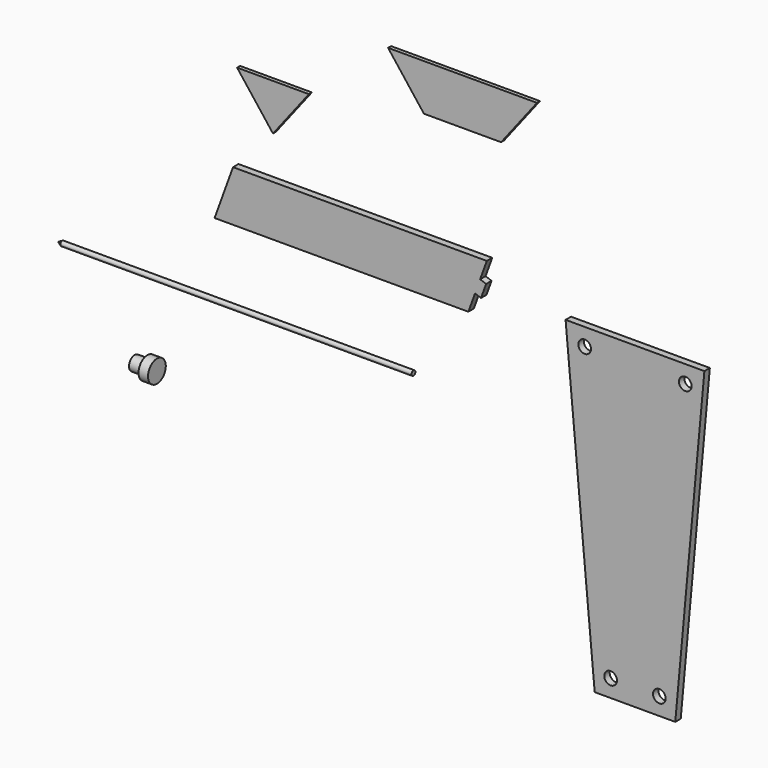
from build123d import *

# Parameters (mm, degrees)
F1_DEPTH = 3.4163
F3_DEPTH = 1.89738
F5_DEPTH = 1.89738
F6_R     = 3.175
F7_DEPTH = 3.4163


with BuildPart() as f1:
    # F0 (on Front) → F1 (new body)
    with BuildSketch(Plane.XZ):
        Polygon((-115.179243, -12.266104), (11.820757, -12.266104), (15.165372, -3.076849), (18.148896, -4.162763), (19.426703, -0.652018), (20.70451, 2.858728), (17.720986, 3.944642), (21.065601, 13.133896), (-105.934399, 13.133896), align=None)
    extrude(amount=F1_DEPTH)


with BuildPart() as f3:
    # F2 (on Front) → F3 (new body)
    with BuildSketch(Plane.XZ):
        Polygon((-87.161818, 56.629179), (-105.122158, 56.629179), (-87.161818, 33.442141), (-69.201478, 56.629179), align=None)
    extrude(amount=F3_DEPTH)


with BuildPart() as f5:
    # F4 (on Front) → F5 (new body)
    with BuildSketch(Plane.XZ):
        Polygon((-11.619255, 89.924287), (-29.579595, 89.924287), (-11.619255, 66.737249), (6.341085, 89.924287), align=None)
        Polygon((6.341085, 89.924287), (-11.619255, 66.737249), (26.983665, 66.737249), (9.023325, 89.924287), align=None)
        Polygon((9.023325, 89.924287), (26.983665, 66.737249), (44.944005, 89.924287), (26.983665, 89.924287), align=None)
    extrude(amount=F5_DEPTH)


with BuildPart() as f7:
    # F6 (on Front) → F7 (new body)
    with BuildSketch(Plane.XZ):
        Polygon((75.043939, -159.2961), (95.210269, -159.2961), (115.376599, -159.2961), (129.944769, 0), (95.210269, 0), (60.475769, 0), align=None)
        with Locations((83.013124, -150.56485)):
            Circle(F6_R, mode=Mode.SUBTRACT)
        with Locations((107.407415, -150.56485)):
            Circle(F6_R, mode=Mode.SUBTRACT)
        with Locations((70.041959, -8.73125)):
            Circle(F6_R, mode=Mode.SUBTRACT)
        with Locations((120.37858, -8.73125)):
            Circle(F6_R, mode=Mode.SUBTRACT)
    extrude(amount=F7_DEPTH)


with BuildPart() as f9:
    # F8 (on Front) → F9 (revolve)
    with BuildSketch(Plane.XZ):
        Polygon((-151.526353, -87.855293), (-157.876353, -87.855293), (-157.876353, -91.427168), (-146.763853, -91.427168), (-146.763853, -85.870918), (-151.526353, -85.870918), align=None)
    revolve(axis=Axis((-152.320103, 0, -91.427168), (-1, 0, 0)))


with BuildPart() as f11:
    # F10 (on Front) → F11 (revolve)
    with BuildSketch(Plane.XZ):
        Polygon((-194.128768, -49.322808), (-196.190991, -50.513433), (-18.390991, -50.513433), (-18.390991, -49.322808), align=None)
    revolve(axis=Axis((-107.290991, 0, -50.513433), (1, 0, 0)))


solid = Compound([f1.part, f3.part, f5.part, f7.part, f9.part, f11.part])
